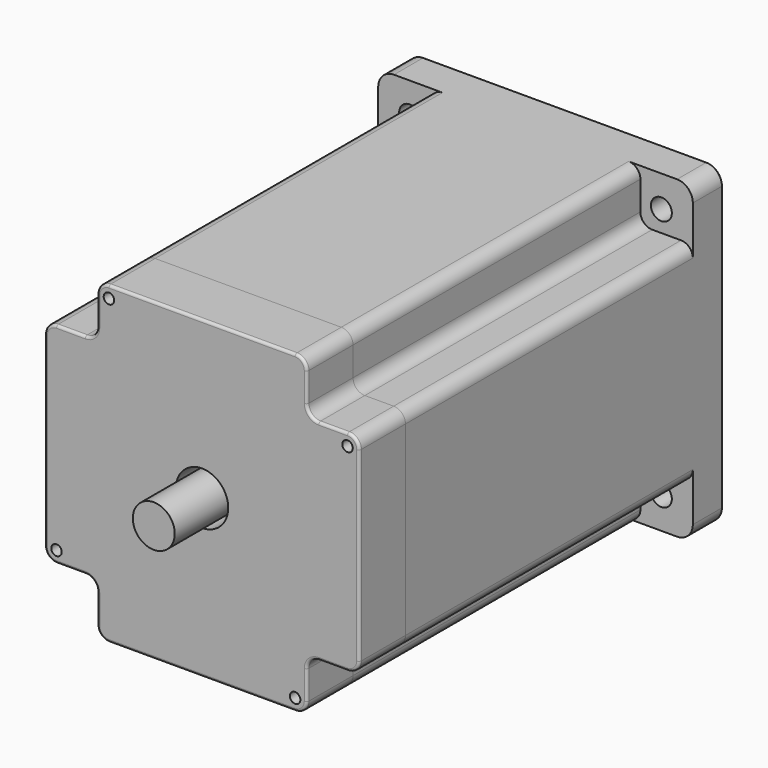
from build123d import *

# Parameters (mm, degrees)
F0_R           = 1
F0_R_2         = 5
F1_DEPTH       = 11
F2_R           = 0.5
F3_R           = 1
F3_R_2         = 5
F4_DEPTH       = 65.5
F6_DEPTH       = 3
F7_R           = 2
F8_DEPTH       = 7
F9_R           = 5.5
F9_R_2         = 4
F10_DEPTH      = 5
F11_DEPTH      = 22.5
F11_DEPTH_BACK = 98
F13_DEPTH      = 20
F9_R_3         = 19
F14_DEPTH      = 1.25
F15_R          = 0.1
F16_DEPTH      = 76.75


with BuildPart() as f1:
    # F0 (on Front) → F1 (new body)
    with BuildSketch(Plane.XZ):
        with BuildLine():
            Line((-3.5, 29.6228150278), (-39, 29.6228150278))
            ThreePointArc((-39, 29.6228150278), (-40.5909902577, 28.9638052855), (-41.25, 27.3728150278))
            Line((-41.25, 27.3728150278), (-41.25, 21.8728150278))
            ThreePointArc((-41.25, 21.8728150278), (-41.9090097423, 20.2818247702), (-43.5, 19.6228150278))
            Line((-43.5, 19.6228150278), (-49, 19.6228150278))
            ThreePointArc((-49, 19.6228150278), (-50.5909902577, 18.9638052855), (-51.25, 17.3728150278))
            Line((-51.25, 17.3728150278), (-51.25, -18.1271849722))
            ThreePointArc((-51.25, -18.1271849722), (-50.5909902577, -19.7181752298), (-49, -20.3771849722))
            Line((-49, -20.3771849722), (-43.5, -20.3771849722))
            ThreePointArc((-43.5, -20.3771849722), (-41.9090097423, -21.0361947145), (-41.25, -22.6271849722))
            Line((-41.25, -22.6271849722), (-41.25, -28.1271849722))
            ThreePointArc((-41.25, -28.1271849722), (-40.5909902577, -29.7181752298), (-39, -30.3771849722))
            Line((-39, -30.3771849722), (-3.5, -30.3771849722))
            ThreePointArc((-3.5, -30.3771849722), (-3.3276995289, -30.3705780603), (-3.1564109458, -30.3507961256))
            ThreePointArc((-3.1564109458, -30.3507961256), (-1.791846703, -29.5916686061), (-1.25, -28.1271849722))
            Line((-1.25, -28.1271849722), (-1.25, -22.6271849722))
            ThreePointArc((-1.25, -22.6271849722), (-0.5909902577, -21.0361947145), (1, -20.3771849722))
            Line((1, -20.3771849722), (6.5, -20.3771849722))
            ThreePointArc((6.5, -20.3771849722), (8.0909902577, -19.7181752298), (8.75, -18.1271849722))
            Line((8.75, -18.1271849722), (8.75, 17.3728150278))
            ThreePointArc((8.75, 17.3728150278), (8.0909902577, 18.9638052855), (6.5, 19.6228150278))
            Line((6.5, 19.6228150278), (1, 19.6228150278))
            ThreePointArc((1, 19.6228150278), (-0.5909902577, 20.2818247702), (-1.25, 21.8728150278))
            Line((-1.25, 21.8728150278), (-1.25, 27.3728150278))
            ThreePointArc((-1.25, 27.3728150278), (-1.9090097423, 28.9638052855), (-3.5, 29.6228150278))
        make_face()
        with Locations((-49, -18.1271849722)):
            Circle(F0_R, mode=Mode.SUBTRACT)
        with Locations((-3.5, -28.1271849722)):
            Circle(F0_R, mode=Mode.SUBTRACT)
        with Locations((-21.25, -0.3771849722)):
            Circle(F0_R_2, mode=Mode.SUBTRACT)
        with Locations((-39, 27.3728150278)):
            Circle(F0_R, mode=Mode.SUBTRACT)
        with Locations((6.5, 17.3728150278)):
            Circle(F0_R, mode=Mode.SUBTRACT)
    extrude(amount=F1_DEPTH)

    # F2
    f2_edges = [f1.edges().sort_by_distance(p)[0] for p in [
        (-51.25, -11, -0.377185),
    ]]
    fillet(f2_edges, radius=F2_R)


with BuildPart() as f4:
    # F3 (on face) → F4 (new body)
    with BuildSketch(Plane(origin=(0, 0, 0), x_dir=(-1, 0, 0), z_dir=(0, 1, 0))):
        with BuildLine():
            ThreePointArc((41.25, 27.3728150278), (40.5909902577, 28.9638052855), (39, 29.6228150278))
            Line((39, 29.6228150278), (3.5, 29.6228150278))
            ThreePointArc((3.5, 29.6228150278), (1.9090097423, 28.9638052855), (1.25, 27.3728150278))
            Line((1.25, 27.3728150278), (1.25, 21.8728150278))
            ThreePointArc((1.25, 21.8728150278), (0.5909902577, 20.2818247702), (-1, 19.6228150278))
            Line((-1, 19.6228150278), (-6.5, 19.6228150278))
            ThreePointArc((-6.5, 19.6228150278), (-8.0909902577, 18.9638052855), (-8.75, 17.3728150278))
            Line((-8.75, 17.3728150278), (-8.75, -18.1271849722))
            ThreePointArc((-8.75, -18.1271849722), (-8.0909902577, -19.7181752298), (-6.5, -20.3771849722))
            Line((-6.5, -20.3771849722), (-1, -20.3771849722))
            ThreePointArc((-1, -20.3771849722), (0.5909902577, -21.0361947145), (1.25, -22.6271849722))
            Line((1.25, -22.6271849722), (1.25, -28.1271849722))
            ThreePointArc((1.25, -28.1271849722), (1.9090097423, -29.7181752298), (3.5, -30.3771849722))
            Line((3.5, -30.3771849722), (39, -30.3771849722))
            ThreePointArc((39, -30.3771849722), (40.5909902577, -29.7181752298), (41.25, -28.1271849722))
            Line((41.25, -28.1271849722), (41.25, -22.6271849722))
            ThreePointArc((41.25, -22.6271849722), (41.9090097423, -21.0361947145), (43.5, -20.3771849722))
            Line((43.5, -20.3771849722), (49, -20.3771849722))
            ThreePointArc((49, -20.3771849722), (50.5909902577, -19.7181752298), (51.25, -18.1271849722))
            Line((51.25, -18.1271849722), (51.25, 17.3728150278))
            ThreePointArc((51.25, 17.3728150278), (50.5909902577, 18.9638052855), (49, 19.6228150278))
            Line((49, 19.6228150278), (43.5, 19.6228150278))
            ThreePointArc((43.5, 19.6228150278), (41.9090097423, 20.2818247702), (41.25, 21.8728150278))
            Line((41.25, 21.8728150278), (41.25, 27.3728150278))
        make_face()
        with Locations((3.5, -28.1271849722)):
            Circle(F3_R, mode=Mode.SUBTRACT)
        with Locations((49, -18.1271849722)):
            Circle(F3_R, mode=Mode.SUBTRACT)
        with Locations((21.25, -0.3771849722)):
            Circle(F3_R_2, mode=Mode.SUBTRACT)
        with Locations((-6.5, 17.3728150278)):
            Circle(F3_R, mode=Mode.SUBTRACT)
        with Locations((39, 27.3728150278)):
            Circle(F3_R, mode=Mode.SUBTRACT)
    extrude(amount=F4_DEPTH)

    # F6 (add): a face of the model
    f6_faces = [f4.faces().sort_by_distance(p)[0] for p in [
        (-41.3090097423, 65.5, 19.6818247702),
    ]]
    extrude(f6_faces, amount=F6_DEPTH)

    # F7 (on face) → F8 (join)
    with BuildSketch(Plane(origin=(0, 68.5, 0), x_dir=(-1, 0, 0), z_dir=(0, 1, 0))):
        with BuildLine():
            Line((48.25, 29.6228150278), (-5.75, 29.6228150278))
            ThreePointArc((-5.75, 29.6228150278), (-7.8713203436, 28.7441353714), (-8.75, 26.6228150278))
            Line((-8.75, 26.6228150278), (-8.75, -27.3771849722))
            ThreePointArc((-8.75, -27.3771849722), (-7.8713203436, -29.4985053157), (-5.75, -30.3771849722))
            Line((-5.75, -30.3771849722), (48.25, -30.3771849722))
            ThreePointArc((48.25, -30.3771849722), (50.3713203436, -29.4985053157), (51.25, -27.3771849722))
            Line((51.25, -27.3771849722), (51.25, 26.6228150278))
            ThreePointArc((51.25, 26.6228150278), (50.3713203436, 28.7441353714), (48.25, 29.6228150278))
        make_face()
        with Locations((-2.75, -24.3771849722)):
            Circle(F7_R, mode=Mode.SUBTRACT)
        with Locations((45.25, -24.3771849722)):
            Circle(F7_R, mode=Mode.SUBTRACT)
        with Locations((-2.75, 23.6228150278)):
            Circle(F7_R, mode=Mode.SUBTRACT)
        with Locations((45.25, 23.6228150278)):
            Circle(F7_R, mode=Mode.SUBTRACT)
    extrude(amount=F8_DEPTH)

    # F9 (on face) → F10 (cut)
    with BuildSketch(Plane(origin=(0, 75.5, 0), x_dir=(-1, 0, 0), z_dir=(0, 1, 0))):
        with Locations((21.25, -0.3771849722)):
            Circle(F9_R)
        with Locations((21.25, -0.3771849722)):
            Circle(F9_R_2, mode=Mode.SUBTRACT)
    extrude(amount=-F10_DEPTH, mode=Mode.SUBTRACT)

    # F11 (add, two sides): a face of the model
    f11_faces = [f4.faces().sort_by_distance(p)[0] for p in [
        (-21.25, 75.5, -0.3771849722),
    ]]
    extrude(f11_faces, amount=F11_DEPTH)
    extrude(f11_faces, amount=-F11_DEPTH_BACK)

    # F12 (on face) → F13 (cut)
    with BuildSketch(Plane(origin=(0, 98, 0), x_dir=(-1, 0, 0), z_dir=(0, 1, 0))):
        with BuildLine():
            Line((18.1553850321, 2.1572495211), (21.8975771714, 3.5700474516))
            ThreePointArc((21.8975771714, 3.5700474516), (19.8372020695, 3.3650071671), (18.1553850321, 2.1572495211))
        make_face()
    extrude(amount=-F13_DEPTH, mode=Mode.SUBTRACT)

    # F9 (on face) → F14 (join)
    with BuildSketch(Plane(origin=(0, 75.5, 0), x_dir=(-1, 0, 0), z_dir=(0, 1, 0))):
        with Locations((21.25, -0.3771849722)):
            Circle(F9_R_3)
        with Locations((21.25, -0.3771849722)):
            Circle(F9_R, mode=Mode.SUBTRACT)
    extrude(amount=F14_DEPTH)

    # F15
    f15_edges = [f4.edges().sort_by_distance(p)[0] for p in [
        (-51.25, 75.5, -0.377185),
    ]]
    fillet(f15_edges, radius=F15_R)

    # F0 (on Front) → F16 (cut, through all)
    with BuildSketch(Plane.XZ):
        with Locations((6.5, 17.3728150278)):
            Circle(F0_R)
        with Locations((-49, -18.1271849722)):
            Circle(F0_R)
        with Locations((-3.5, -28.1271849722)):
            Circle(F0_R)
        with Locations((-39, 27.3728150278)):
            Circle(F0_R)
    extrude(amount=-F16_DEPTH, mode=Mode.SUBTRACT)


solid = Compound([f1.part, f4.part])
